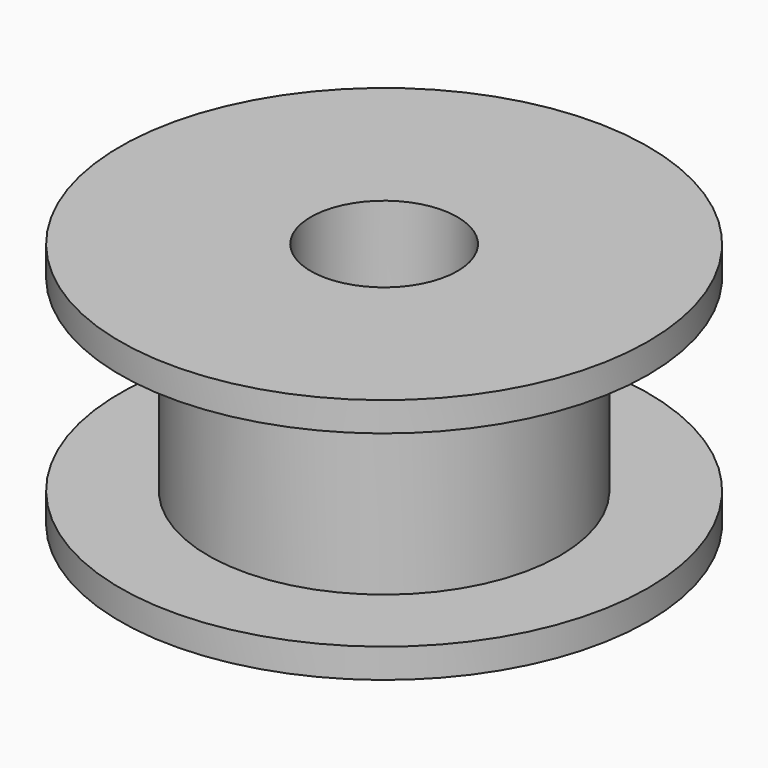
from build123d import *

# Parameters (mm, degrees)
CYLINDER003_R     = 2.5
CYLINDER003_DEPTH = 10
CYLINDER001_R     = 9
CYLINDER001_DEPTH = 1
CYLINDER_R        = 6
CYLINDER_DEPTH    = 6.4
CYLINDER002_R     = 9
CYLINDER002_DEPTH = 1


with BuildPart() as cilindro003:
    # Cylinder003 → Cylinder003 (new body)
    with BuildSketch(Plane.XY.offset(-5)):
        Circle(CYLINDER003_R)
    extrude(amount=CYLINDER003_DEPTH)


with BuildPart() as cilindro001:
    # Cylinder001 → Cylinder001 (new body)
    with BuildSketch(Plane.XY.offset(3.2)):
        Circle(CYLINDER001_R)
    extrude(amount=CYLINDER001_DEPTH)


with BuildPart() as fusion:
    # Cylinder → Cylinder (new body)
    with BuildSketch(Plane.XY.offset(-3.2)):
        Circle(CYLINDER_R)
    extrude(amount=CYLINDER_DEPTH)

    # Fusion: union Cilindro001
    add(cilindro001.part)


with BuildPart() as pulley:
    # Cylinder002 → Cylinder002 (new body)
    with BuildSketch(Plane.XY.offset(-4.2)):
        Circle(CYLINDER002_R)
    extrude(amount=CYLINDER002_DEPTH)

    # Fusion001: union Fusion
    add(fusion.part)

    # Cut: cut Cilindro003
    add(cilindro003.part, mode=Mode.SUBTRACT)


solid = pulley.part
